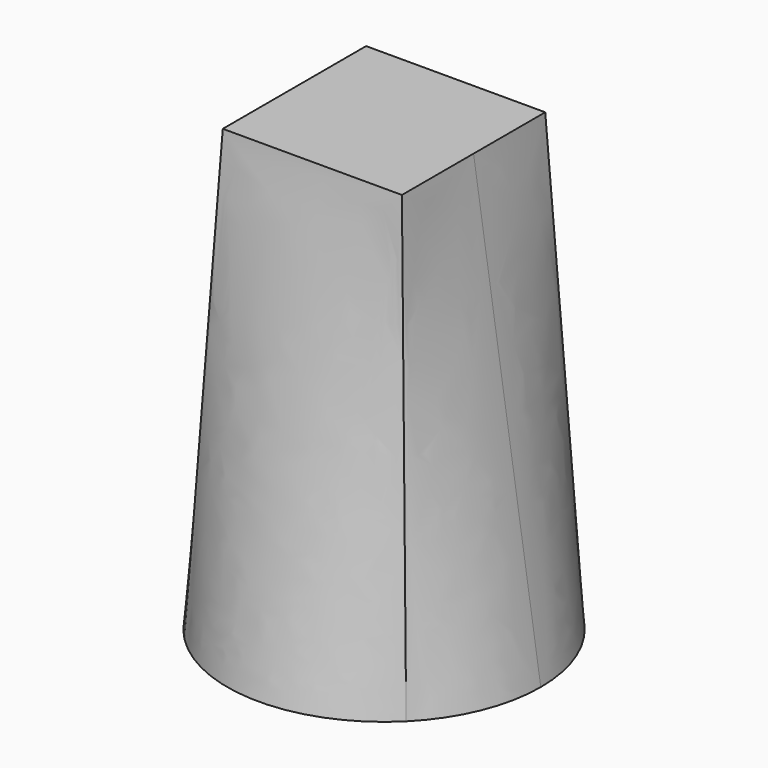
from build123d import *

# Parameters (mm, degrees)
F0_R = 4.445
F2_W = 5.08
F2_H = 5.08


with BuildPart() as f3:
    # F0 (on Top) → F3 section 0
    with BuildSketch(Plane.XY):
        Circle(F0_R)
    # F2 (on offset) → F3 section 1
    with BuildSketch(Plane.XY.offset(12.7)):
        Rectangle(F2_W, F2_H)
    loft()


solid = f3.part
